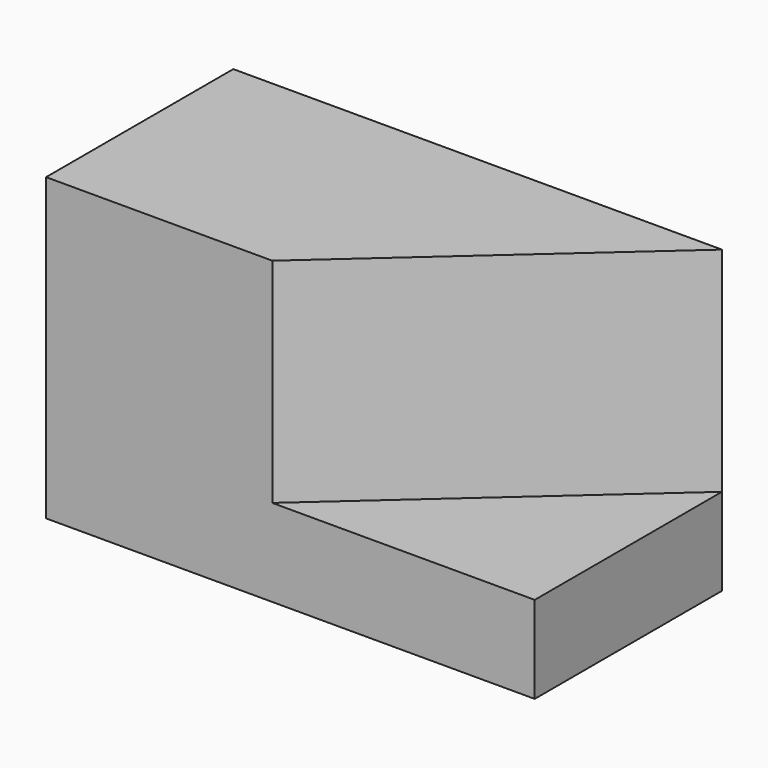
from build123d import *

# Parameters (mm, degrees)
F1_DEPTH = 112.014
F2_DEPTH = 32.512


with BuildPart() as f1:
    # F0 (on Top) → F1 (new body)
    with BuildSketch(Plane.XY):
        Polygon((97.843558, 53.018674), (-84.347889, 53.018674), (-84.347889, -34.221143), (0, -34.221143), align=None)
    extrude(amount=F1_DEPTH)

    # F0 (on Top) → F2 (join)
    with BuildSketch(Plane.XY):
        Polygon((97.843558, 53.018674), (-84.347889, 53.018674), (-84.347889, -34.221143), (0, -34.221143), align=None)
        Polygon((97.843558, -34.221143), (97.843558, 53.018674), (0, -34.221143), align=None)
    extrude(amount=F2_DEPTH)


solid = f1.part
